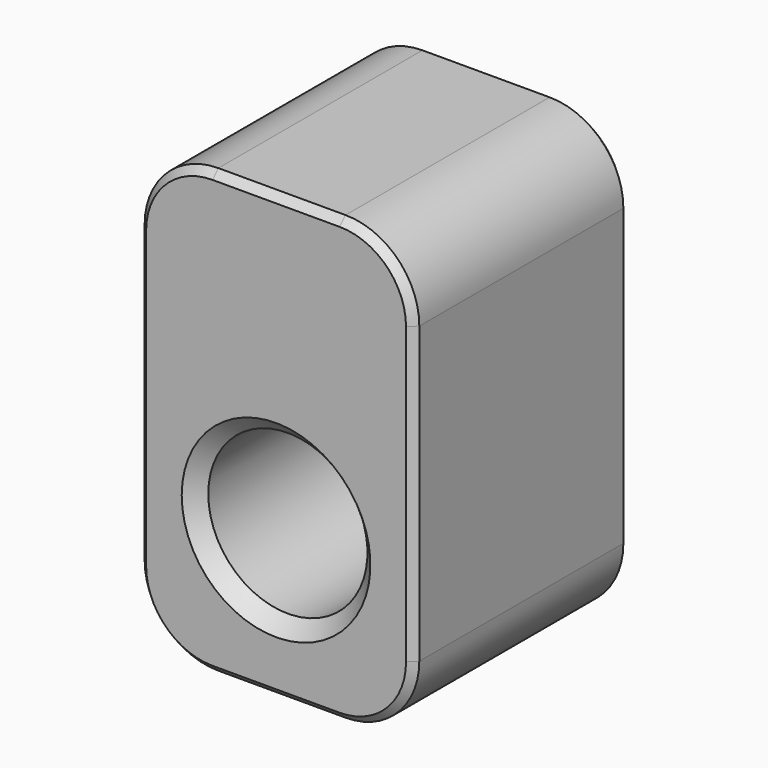
from build123d import *

# Parameters (mm, degrees)
F0_W          = 94.60038
F0_H          = 92.940778
F1_DEPTH      = 101.6
F1_DEPTH_BACK = 50.8
F2_R          = 25.4
F3_SIZE       = 2.54
F4_R          = 27.414742
F5_DEPTH      = 138.78718
F6_SIZE       = 5.08


with BuildPart() as f1:
    # F0 (on Top) → F1 (new body, two sides)
    with BuildSketch(Plane.XY) as f1_sk:
        Rectangle(F0_W, F0_H)
    extrude(amount=F1_DEPTH)
    extrude(f1_sk.sketch, amount=-F1_DEPTH_BACK)

    # F2
    f2_edges = [f1.edges().sort_by_distance(p)[0] for p in [
        (-47.30019, 0, 101.6),
        (47.30019, 0, 101.6),
        (-47.30019, 0, -50.8),
        (47.30019, 0, -50.8),
    ]]
    fillet(f2_edges, radius=F2_R)

    # F3
    f3_edges = [f1.edges().sort_by_distance(p)[0] for p in [
        (47.30019, 46.470389, 25.4),
        (47.30019, -46.470389, 25.4),
    ]]
    chamfer(f3_edges, length=F3_SIZE)

    # F4 (on face) → F5 (cut)
    with BuildSketch(Plane(origin=(0, 46.470389, 0), x_dir=(-1, 0, 0), z_dir=(0, 1, 0))):
        Circle(F4_R)
    extrude(amount=-F5_DEPTH, mode=Mode.SUBTRACT)

    # F6
    f6_edges = [f1.edges().sort_by_distance(p)[0] for p in [
        (27.414742, -46.470389, 0),
        (27.414742, 46.470389, 0),
    ]]
    chamfer(f6_edges, length=F6_SIZE)


solid = f1.part
